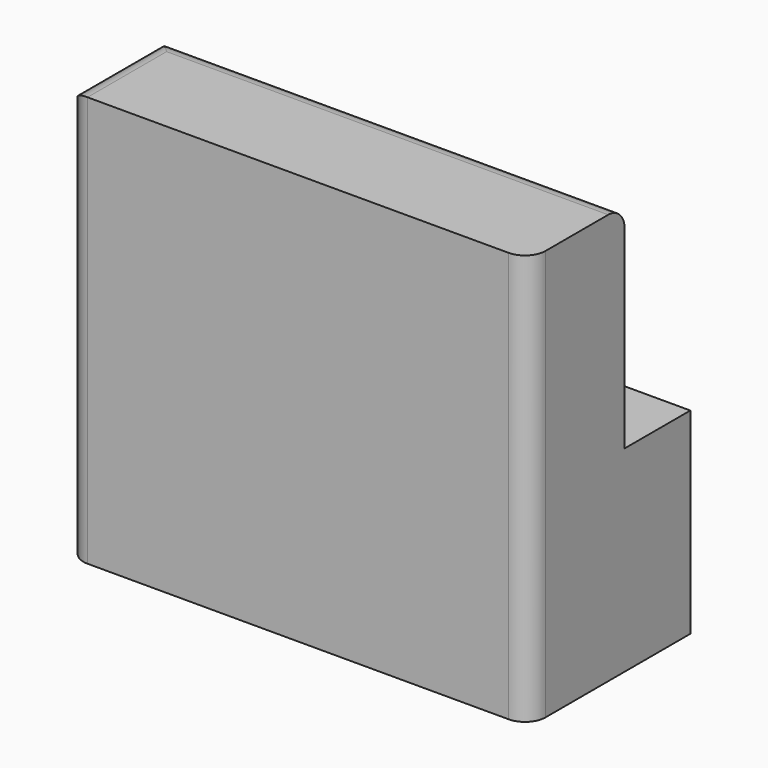
from build123d import *

# Parameters (mm, degrees)
F0_W     = 112.5419810414
F0_H     = 49.071829766
F1_DEPTH = 50
F2_DEPTH = 50
F3_W     = 112.5419810414
F3_H     = 5.3821941838
F3_H_2   = 46.7423561029
F4_DEPTH = 20
F5_R     = 5


with BuildPart() as f1:
    # F0 (on Top) → F1 (new body)
    with BuildSketch(Plane.XY):
        Rectangle(F0_W, F0_H)
    extrude(amount=F1_DEPTH)

    # F2 (add): a face of the model
    f2_faces = [f1.faces().sort_by_distance(p)[0] for p in [
        (0, 0, 0),
    ]]
    extrude(f2_faces, amount=F2_DEPTH)

    # F3 (on face) → F4 (cut)
    with BuildSketch(Plane(origin=(0, 24.535914883, 0), x_dir=(-1, 0, 0), z_dir=(0, 1, 0))):
        with Locations((0, 0.5665468052)):
            Rectangle(F3_W, F3_H)
        with Locations((0, 26.6288219485)):
            Rectangle(F3_W, F3_H_2)
    extrude(amount=-F4_DEPTH, mode=Mode.SUBTRACT)

    # F5
    f5_edges = [f1.edges().sort_by_distance(p)[0] for p in [
        (0, 4.535915, 50),
        (-56.270991, -10, 50),
        (56.270991, -24.535915, 0),
        (-56.270991, -24.535915, 0),
    ]]
    fillet(f5_edges, radius=F5_R)


solid = f1.part
